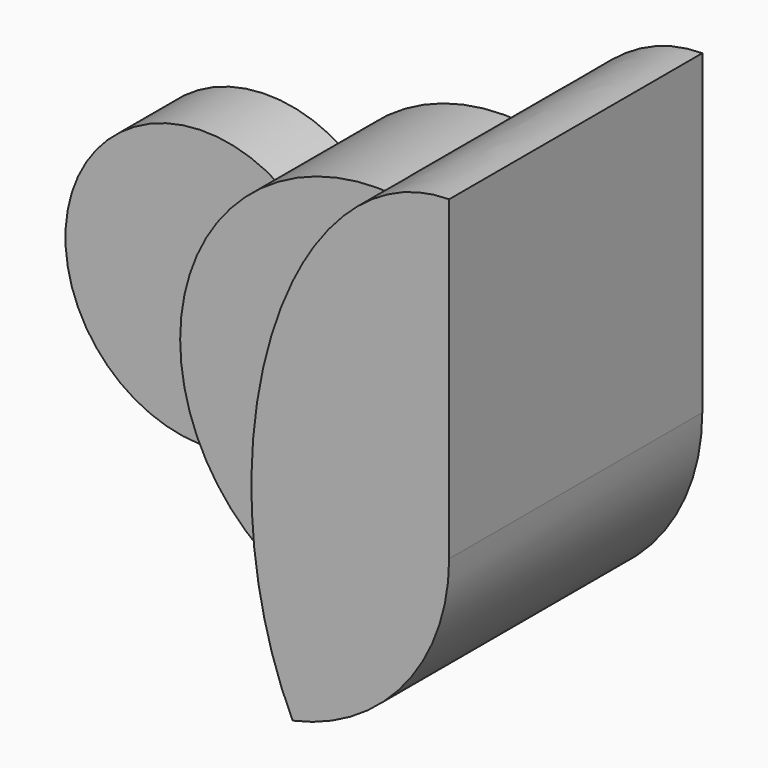
from build123d import *

# Parameters (mm, degrees)
F1_DEPTH = 101.6
F2_DEPTH = 50.8
F3_DEPTH = 25.4


with BuildPart() as f1:
    # F0 (on Front) → F1 (new body)
    with BuildSketch(Plane.XZ):
        with BuildLine():
            add(Edge.make_bspline(
                [(63.5, 101.6), (32.3093875408, 101.6), (13.2439655959, 62.1035214404)],
                knots=[3.1415926536, 3.1415926536, 3.1415926536, 4.0547434617, 4.0547434617, 4.0547434617], degree=2, weights=[1, 0.8975675831, 1]))
            ThreePointArc((13.2439655959, 62.1035214404), (49.3621404284, 39.9453262889), (63.5, 0))
            Line((63.5, 0), (63.5, 101.6))
        make_face()
        with BuildLine():
            ThreePointArc((63.5, 0), (49.3621404284, 39.9453262889), (13.2439655959, 62.1035214404))
            add(Edge.make_bspline(
                [(13.2439655959, 62.1035214404), (0, 34.6669399309), (0, 0)],
                knots=[4.0547434617, 4.0547434617, 4.0547434617, 4.7123889804, 4.7123889804, 4.7123889804], degree=2, weights=[1, 0.9464231645, 1]))
            add(Edge.make_bspline(
                [(0, 0), (0, -34.6669399309), (13.2439655959, -62.1035214404)],
                knots=[4.7123889804, 4.7123889804, 4.7123889804, 5.370034499, 5.370034499, 5.370034499], degree=2, weights=[1, 0.9464231645, 1]))
            ThreePointArc((13.2439655959, -62.1035214404), (49.3621404284, -39.9453262889), (63.5, 0))
        make_face()
    extrude(amount=F1_DEPTH)

    # F0 (on Front) → F2 (join)
    with BuildSketch(Plane.XZ):
        with BuildLine():
            ThreePointArc((-51.59375, 37.0180356169), (-37.0237934934, 21.0006510316), (-31.75, 0))
            ThreePointArc((-31.75, 0), (-37.0237934934, -21.0006510316), (-51.59375, -37.0180356169))
            ThreePointArc((-51.59375, -37.0180356169), (-22.9128106244, -59.2220660674), (13.2439655959, -62.1035214404))
            add(Edge.make_bspline(
                [(0, 0), (0, -34.6669399309), (13.2439655959, -62.1035214404)],
                knots=[4.7123889804, 4.7123889804, 4.7123889804, 5.370034499, 5.370034499, 5.370034499], degree=2, weights=[1, 0.9464231645, 1]))
            add(Edge.make_bspline(
                [(13.2439655959, 62.1035214404), (0, 34.6669399309), (0, 0)],
                knots=[4.0547434617, 4.0547434617, 4.0547434617, 4.7123889804, 4.7123889804, 4.7123889804], degree=2, weights=[1, 0.9464231645, 1]))
            ThreePointArc((13.2439655959, 62.1035214404), (-22.9128106244, 59.2220660674), (-51.59375, 37.0180356169))
        make_face()
        with BuildLine():
            ThreePointArc((-51.59375, -37.0180356169), (-37.0237934934, -21.0006510316), (-31.75, 0))
            ThreePointArc((-31.75, 0), (-37.0237934934, 21.0006510316), (-51.59375, 37.0180356169))
            ThreePointArc((-51.59375, 37.0180356169), (-63.5, 0), (-51.59375, -37.0180356169))
        make_face()
    extrude(amount=F2_DEPTH)

    # F0 (on Front) → F3 (join)
    with BuildSketch(Plane.XZ):
        with BuildLine():
            ThreePointArc((-51.59375, -37.0180356169), (-63.5, 0), (-51.59375, 37.0180356169))
            ThreePointArc((-51.59375, 37.0180356169), (-120.65, 0), (-51.59375, -37.0180356169))
        make_face()
    extrude(amount=F3_DEPTH)


solid = f1.part
